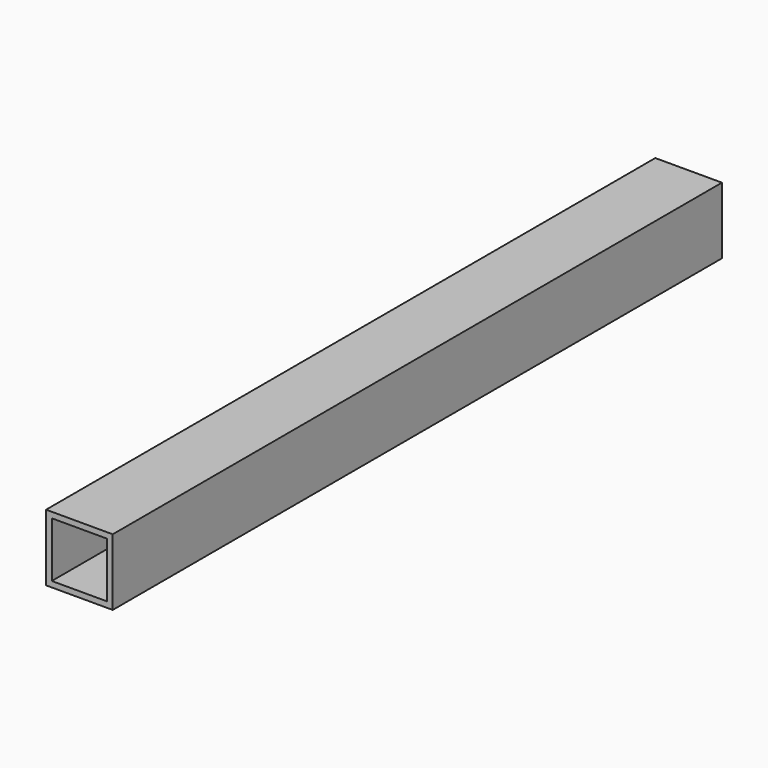
from build123d import *

# Parameters (mm, degrees)
F0_W     = 35
F0_H     = 35
F0_W_2   = 29
F0_H_2   = 29
F1_DEPTH = 200


with BuildPart() as f1:
    # F0 (on Front) → F1 (new body, symmetric)
    with BuildSketch(Plane.XZ):
        with Locations((-119.59325701, -7.0202165097)):
            Rectangle(F0_W, F0_H)
        with Locations((-119.59325701, -7.0202165097)):
            Rectangle(F0_W_2, F0_H_2, mode=Mode.SUBTRACT)
    extrude(amount=F1_DEPTH, both=True)


solid = f1.part
